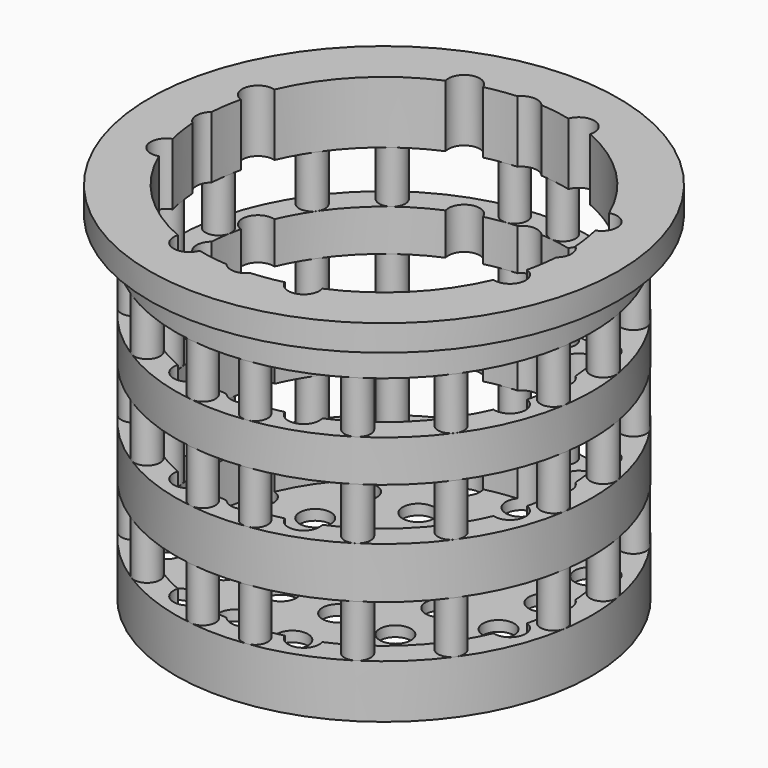
from build123d import *

# Parameters (mm, degrees)
F0_R      = 40
F1_DEPTH  = 70
F2_R      = 45
F3_DEPTH  = 5
F4_R      = 35
F5_DEPTH  = 68
F6_R      = 3
F7_DEPTH  = 70.001
F8_W      = 84.5323465765
F8_H      = 10
F9_DEPTH  = 45.001
F10_DEPTH = 45.001
F11_R     = 2.5
F11_R_2   = 2.45
F12_DEPTH = 13
F14_R     = 2.45
F14_R_2   = 2.5
F15_DEPTH = 13
F17_R     = 2.45
F17_R_2   = 2.5
F18_DEPTH = 13


with BuildPart() as f1:
    # F0 (on Top) → F1 (new body)
    with BuildSketch(Plane.XY):
        Circle(F0_R)
    extrude(amount=-F1_DEPTH)

    # F2 (on face) → F3 (join)
    with BuildSketch(Plane.XY):
        Circle(F2_R)
    extrude(amount=-F3_DEPTH)

    # F4 (on face) → F5 (cut)
    with BuildSketch(Plane.XY):
        Circle(F4_R)
    extrude(amount=-F5_DEPTH, mode=Mode.SUBTRACT)

    # F6 (on face) → F7 (cut, through all)
    with BuildSketch(Plane(origin=(0, 0, -70), x_dir=(1, 0, 0), z_dir=(0, 0, -1))):
        Circle(F6_R)
        with Locations((0, 11)):
            Circle(F6_R)
        with Locations((0, -11)):
            Circle(F6_R)
        with Locations((-11, 0)):
            Circle(F6_R)
        with Locations((11, 0)):
            Circle(F6_R)
        with Locations((0, 22)):
            Circle(F6_R)
        with Locations((-22, 0)):
            Circle(F6_R)
        with Locations((22, 0)):
            Circle(F6_R)
        with Locations((33, 0)):
            Circle(F6_R)
        with Locations((0, 33)):
            Circle(F6_R)
        with Locations((-33, 0)):
            Circle(F6_R)
        with Locations((0, -22)):
            Circle(F6_R)
        with Locations((0, -33)):
            Circle(F6_R)
        with Locations((-11, -11)):
            Circle(F6_R)
        with Locations((11, 11)):
            Circle(F6_R)
        with Locations((-11, 11)):
            Circle(F6_R)
        with Locations((11, -11)):
            Circle(F6_R)
        with Locations((-22, 11)):
            Circle(F6_R)
        with Locations((-11, 22)):
            Circle(F6_R)
        with Locations((11, 22)):
            Circle(F6_R)
        with Locations((22, 11)):
            Circle(F6_R)
        with Locations((22, -11)):
            Circle(F6_R)
        with Locations((11, -22)):
            Circle(F6_R)
        with Locations((-22, -11)):
            Circle(F6_R)
        with Locations((-11, -22)):
            Circle(F6_R)
        with Locations((-22, 22)):
            Circle(F6_R)
        with Locations((22, 22)):
            Circle(F6_R)
        with Locations((22, -22)):
            Circle(F6_R)
        with Locations((-22, -22)):
            Circle(F6_R)
        with Locations((-33, 11)):
            Circle(F6_R)
        with Locations((33, 11)):
            Circle(F6_R)
        with Locations((33, -11)):
            Circle(F6_R)
        with Locations((-11, -33)):
            Circle(F6_R)
        with Locations((11, -33)):
            Circle(F6_R)
        with Locations((-33, -11)):
            Circle(F6_R)
        with Locations((-11, 33)):
            Circle(F6_R)
        with Locations((11, 33)):
            Circle(F6_R)
    extrude(amount=-F7_DEPTH, mode=Mode.SUBTRACT)

    # F8 (on Front) → F9 (cut, through all)
    with BuildSketch(Plane.XZ):
        with Locations((-1.1013988405, -16.9257019162)):
            Rectangle(F8_W, F8_H)
        with Locations((-1.1013988405, -34.9257019162)):
            Rectangle(F8_W, F8_H)
        with Locations((-1.1013988405, -54.7508773208)):
            Rectangle(F8_W, F8_H)
    extrude(amount=-F9_DEPTH, mode=Mode.SUBTRACT)

    # F8 (on Front) → F10 (cut, through all)
    with BuildSketch(Plane.XZ):
        with Locations((-1.1013988405, -16.9257019162)):
            Rectangle(F8_W, F8_H)
        with Locations((-1.1013988405, -34.9257019162)):
            Rectangle(F8_W, F8_H)
        with Locations((-1.1013988405, -54.7508773208)):
            Rectangle(F8_W, F8_H)
    extrude(amount=F10_DEPTH, mode=Mode.SUBTRACT)

    # F11 (on face) → F12 (join)
    with BuildSketch(Plane.XY.offset(-21.9257019162)):
        with Locations((-30.4251815083, -21.921640682)):
            Circle(F11_R)
        with Locations((-20.2124581927, -31.5864929014)):
            Circle(F11_R)
        with Locations((-37.0739313793, -5.6368086792)):
            Circle(F11_R)
        with Locations((-36.9403359398, 6.4545782711)):
            Circle(F11_R)
        with Locations((-30.8481538437, 21.3223217412)):
            Circle(F11_R)
        with Locations((-22.4420734459, 30.0433576594)):
            Circle(F11_R)
        with Locations((-4.6318558246, 37.162459709)):
            Circle(F11_R_2)
        with Locations((-5.0226729741, -37.2125685246)):
            Circle(F11_R_2)
    extrude(amount=F12_DEPTH)

    # F13: F1 across plane


with BuildPart() as f1_1:
    add(f1.part)
    add(f1.part.mirror(Plane.YZ))

    # F14 (on face) → F15 (join)
    with BuildSketch(Plane(origin=(0, 0, -29.9257019162), x_dir=(1, 0, 0), z_dir=(0, 0, -1))):
        with Locations((-5.0226729741, 37.2125685246)):
            Circle(F14_R)
        with Locations((-20.2124581927, 31.5864929014)):
            Circle(F14_R_2)
        with Locations((-30.4251815083, 21.921640682)):
            Circle(F14_R_2)
        with Locations((-37.0739313793, 5.6368086792)):
            Circle(F14_R_2)
        with Locations((-36.9403359398, -6.4545782711)):
            Circle(F14_R_2)
        with Locations((-30.8481538437, -21.3223217412)):
            Circle(F14_R_2)
        with Locations((-22.4420734459, -30.0433576594)):
            Circle(F14_R_2)
        with Locations((-4.6318558246, -37.162459709)):
            Circle(F14_R)
    extrude(amount=F15_DEPTH)

    # F16: F1 across plane


with BuildPart() as f1_2:
    add(f1_1.part)
    add(f1_1.part.mirror(Plane.YZ))

    # F17 (on face) → F18 (join)
    with BuildSketch(Plane(origin=(0, 0, -49.7508773208), x_dir=(1, 0, 0), z_dir=(0, 0, -1))):
        with Locations((-5.0226729741, 37.2125685246)):
            Circle(F17_R)
        with Locations((-20.2124581927, 31.5864929014)):
            Circle(F17_R_2)
        with Locations((-30.4251815083, 21.921640682)):
            Circle(F17_R_2)
        with Locations((-37.0739313793, 5.6368086792)):
            Circle(F17_R_2)
        with Locations((-36.9403359398, -6.4545782711)):
            Circle(F17_R_2)
        with Locations((-30.8481538437, -21.3223217412)):
            Circle(F17_R_2)
        with Locations((-22.4420734459, -30.0433576594)):
            Circle(F17_R_2)
        with Locations((-4.6318558246, -37.162459709)):
            Circle(F17_R)
    extrude(amount=F18_DEPTH)

    # F19: F1 across plane


with BuildPart() as f1_3:
    add(f1_2.part)
    add(f1_2.part.mirror(Plane.YZ))


solid = f1_3.part
